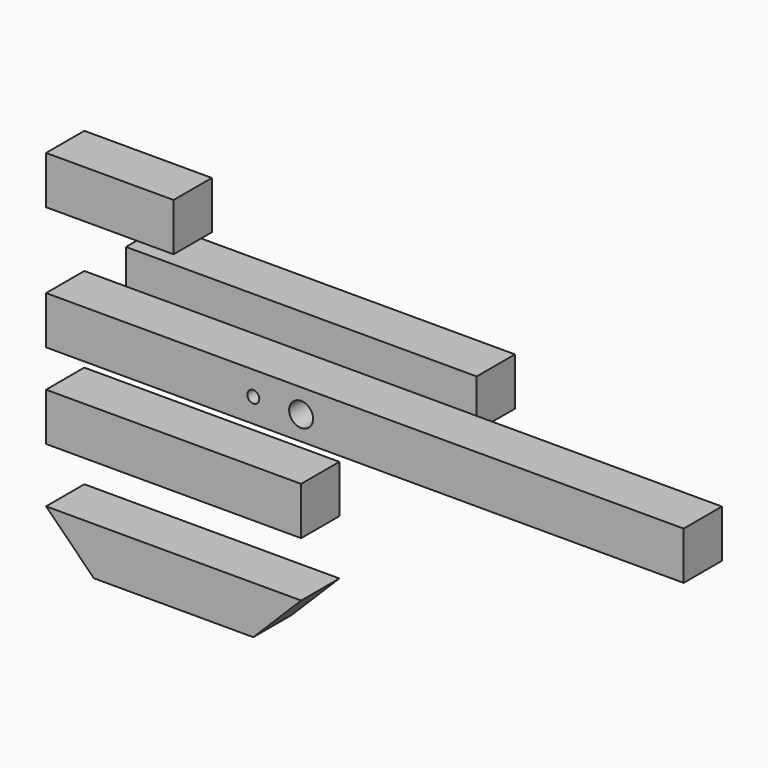
from build123d import *

# Parameters (mm, degrees)
F0_W      = 254
F0_H      = 19.05
F1_DEPTH  = 19.05
F3_DEPTH  = 25.4
F4_W      = 101.6
F4_H      = 19.05
F5_DEPTH  = 19.05
F7_DEPTH  = 19.05
F8_W      = 50.8
F8_H      = 19.05
F9_DEPTH  = 19.05
F10_W     = 19.05
F10_H     = 19.05
F11_DEPTH = 139.7


with BuildPart() as f1:
    # F0 (on Front) → F1 (new body)
    with BuildSketch(Plane.XZ):
        with Locations((127, 9.525)):
            Rectangle(F0_W, F0_H)
    extrude(amount=F1_DEPTH)

    # F2 (on face) → F3 (cut)
    with BuildSketch(Plane.XZ.offset(19.05)):
        with BuildLine():
            ThreePointArc((84.93125, 9.525), (82.55, 11.90625), (80.16875, 9.525))
            Line((80.16875, 9.525), (82.55, 9.525))
            Line((82.55, 9.525), (84.93125, 9.525))
        make_face()
        with BuildLine():
            ThreePointArc((106.3625, 9.525), (101.6, 14.2875), (96.8375, 9.525))
            ThreePointArc((96.8375, 9.525), (101.6, 4.7625), (106.3625, 9.525))
        make_face()
        with BuildLine():
            Line((82.55, 9.525), (80.16875, 9.525))
            ThreePointArc((80.16875, 9.525), (82.55, 7.14375), (84.93125, 9.525))
            Line((84.93125, 9.525), (82.55, 9.525))
        make_face()
    extrude(amount=-F3_DEPTH, mode=Mode.SUBTRACT)


with BuildPart() as f5:
    # F4 (on Front) → F5 (new body)
    with BuildSketch(Plane.XZ):
        with Locations((50.8, -24.360368)):
            Rectangle(F4_W, F4_H)
    extrude(amount=F5_DEPTH)


with BuildPart() as f7:
    # F6 (on Front) → F7 (new body)
    with BuildSketch(Plane.XZ):
        Polygon((101.6, -55.741971), (0, -55.741971), (19.05, -74.791971), (82.55, -74.791971), align=None)
    extrude(amount=F7_DEPTH)


with BuildPart() as f9:
    # F8 (on Front) → F9 (new body)
    with BuildSketch(Plane.XZ):
        with Locations((25.4, 58.681494)):
            Rectangle(F8_W, F8_H)
    extrude(amount=F9_DEPTH)


with BuildPart() as f11:
    # F10 (on Right) → F11 (new body)
    with BuildSketch(Plane.YZ):
        with Locations((30.295648, 9.525)):
            Rectangle(F10_W, F10_H)
    extrude(amount=F11_DEPTH)


solid = Compound([f1.part, f5.part, f7.part, f9.part, f11.part])
